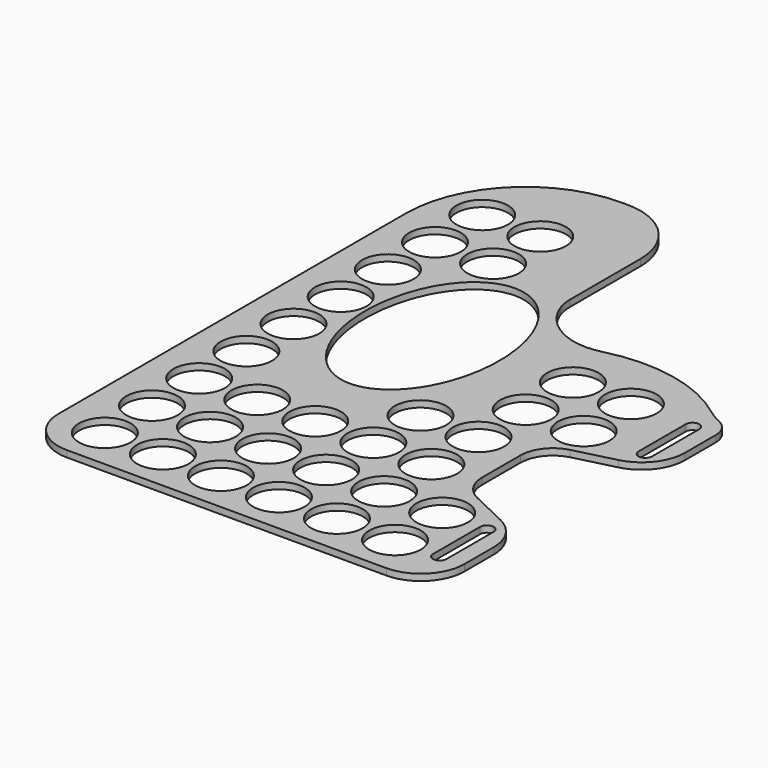
from build123d import *

# Parameters (mm, degrees)
SKETCH_R  = 11.875
PAD_DEPTH = 3


with BuildPart() as part:
    # Sketch → Pad (new body)
    with BuildSketch(Plane.XY):
        with BuildLine():
            ThreePointArc((-20, 20), (-14.142136, 5.857864), (0, 0))
            Line((0, 0), (147, 0))
            ThreePointArc((147, 0), (161.142136, 5.857864), (167, 20))
            Line((167, 20), (167, 36.865437))
            ThreePointArc((167, 36.865437), (163.916939, 47.533949), (155.618284, 54.913295))
            Line((155.618284, 54.913295), (138.376031, 63.146882))
            ThreePointArc((138.376031, 63.146882), (132.152039, 68.681392), (129.839744, 76.682776))
            Line((129.839744, 76.682776), (129.839744, 98.603846))
            ThreePointArc((129.839744, 98.603846), (133.005182, 107.820307), (141.165496, 113.146882))
            Line((141.165496, 113.146882), (159.690664, 117.827202))
            ThreePointArc((159.690664, 117.827202), (170.571083, 124.929303), (174.791667, 137.217917))
            Line((174.791667, 137.217917), (174.791667, 154.888969))
            ThreePointArc((174.791667, 154.888969), (173.196434, 160.307446), (168.919688, 163.997176))
            ThreePointArc((168.919688, 163.997176), (165.609185, 165.730281), (162.516289, 167.827202))
            ThreePointArc((162.516289, 167.827202), (133.94863, 180.807989), (102.580391, 180.004513))
            ThreePointArc((102.580391, 180.004513), (82.656269, 182.266145), (69.30825, 197.229969))
            ThreePointArc((69.30825, 197.229969), (68.329781, 200.727661), (68, 204.344634))
            Line((68, 204.344634), (68, 245.004513))
            ThreePointArc((68, 245.004513), (59.213203, 266.217717), (38, 275.004513))
            Line((38, 275.004513), (35, 275.004513))
            ThreePointArc((35, 275.004513), (-3.890873, 258.895386), (-20, 220.004513))
            Line((-20, 220.004513), (-20, 20))
        make_face()
        with BuildLine():
            add(Edge.make_bspline(
                [(46.991093, 199.004513), (-6.633658, 199.004513), (20.178718, 127.754513), (46.991093, 56.504513), (73.803469, 127.754513), (100.615845, 199.004513), (46.991093, 199.004513)],
                knots=[0, 0, 0, 2.094395, 2.094395, 4.18879, 4.18879, 6.283185, 6.283185, 6.283185], degree=2, weights=[1, 0.5, 1, 0.5, 1, 0.5, 1]))
        make_face(mode=Mode.SUBTRACT)
        with Locations((2.261905, 46.142857)):
            Circle(SKETCH_R, mode=Mode.SUBTRACT)
        with Locations((28.97619, 46.142857)):
            Circle(SKETCH_R, mode=Mode.SUBTRACT)
        with Locations((55.690476, 46.142857)):
            Circle(SKETCH_R, mode=Mode.SUBTRACT)
        with Locations((82.404762, 46.142857)):
            Circle(SKETCH_R, mode=Mode.SUBTRACT)
        with Locations((109.119048, 46.142857)):
            Circle(SKETCH_R, mode=Mode.SUBTRACT)
        with Locations((2.261905, 19)):
            Circle(SKETCH_R, mode=Mode.SUBTRACT)
        with Locations((28.97619, 19)):
            Circle(SKETCH_R, mode=Mode.SUBTRACT)
        with Locations((55.690476, 19)):
            Circle(SKETCH_R, mode=Mode.SUBTRACT)
        with Locations((82.404762, 19)):
            Circle(SKETCH_R, mode=Mode.SUBTRACT)
        with Locations((109.119048, 19)):
            Circle(SKETCH_R, mode=Mode.SUBTRACT)
        with Locations((135.833333, 46.142857)):
            Circle(SKETCH_R, mode=Mode.SUBTRACT)
        with Locations((135.833333, 19)):
            Circle(SKETCH_R, mode=Mode.SUBTRACT)
        with Locations((2.261905, 73.285714)):
            Circle(SKETCH_R, mode=Mode.SUBTRACT)
        with Locations((28.97619, 73.285714)):
            Circle(SKETCH_R, mode=Mode.SUBTRACT)
        with Locations((55.690476, 73.285714)):
            Circle(SKETCH_R, mode=Mode.SUBTRACT)
        with Locations((82.404762, 73.285714)):
            Circle(SKETCH_R, mode=Mode.SUBTRACT)
        with Locations((109.119048, 73.285714)):
            Circle(SKETCH_R, mode=Mode.SUBTRACT)
        with Locations((2.261905, 100.428571)):
            Circle(SKETCH_R, mode=Mode.SUBTRACT)
        with Locations((109.119048, 127.571429)):
            Circle(SKETCH_R, mode=Mode.SUBTRACT)
        with Locations((2.261905, 127.571429)):
            Circle(SKETCH_R, mode=Mode.SUBTRACT)
        with Locations((2.261905, 154.714286)):
            Circle(SKETCH_R, mode=Mode.SUBTRACT)
        with Locations((109.119048, 154.714286)):
            Circle(SKETCH_R, mode=Mode.SUBTRACT)
        with Locations((135.833333, 154.714286)):
            Circle(SKETCH_R, mode=Mode.SUBTRACT)
        with Locations((135.833333, 127.571429)):
            Circle(SKETCH_R, mode=Mode.SUBTRACT)
        with Locations((82.404762, 100.428571)):
            Circle(SKETCH_R, mode=Mode.SUBTRACT)
        with Locations((109.119048, 100.428571)):
            Circle(SKETCH_R, mode=Mode.SUBTRACT)
        with Locations((2.261905, 181.857143)):
            Circle(SKETCH_R, mode=Mode.SUBTRACT)
        with Locations((2.261905, 209)):
            Circle(SKETCH_R, mode=Mode.SUBTRACT)
        with Locations((28.97619, 209)):
            Circle(SKETCH_R, mode=Mode.SUBTRACT)
        with Locations((2.261905, 236.142857)):
            Circle(SKETCH_R, mode=Mode.SUBTRACT)
        with Locations((28.97619, 236.142857)):
            Circle(SKETCH_R, mode=Mode.SUBTRACT)
        with BuildLine():
            ThreePointArc((159.52, 46.142857), (156.403333, 49.259524), (153.286667, 46.142857))
            Line((153.286667, 46.142857), (153.286667, 19))
            ThreePointArc((153.286667, 19), (156.403333, 15.883333), (159.52, 19))
            Line((159.52, 19), (159.52, 46.142857))
        make_face(mode=Mode.SUBTRACT)
        with BuildLine():
            ThreePointArc((167.311667, 154.714286), (164.195, 157.830952), (161.078333, 154.714286))
            Line((161.078333, 154.714286), (161.078333, 127.571429))
            ThreePointArc((161.078333, 127.571429), (164.195, 124.454762), (167.311667, 127.571429))
            Line((167.311667, 127.571429), (167.311667, 154.714286))
        make_face(mode=Mode.SUBTRACT)
    extrude(amount=PAD_DEPTH)


solid = part.part
